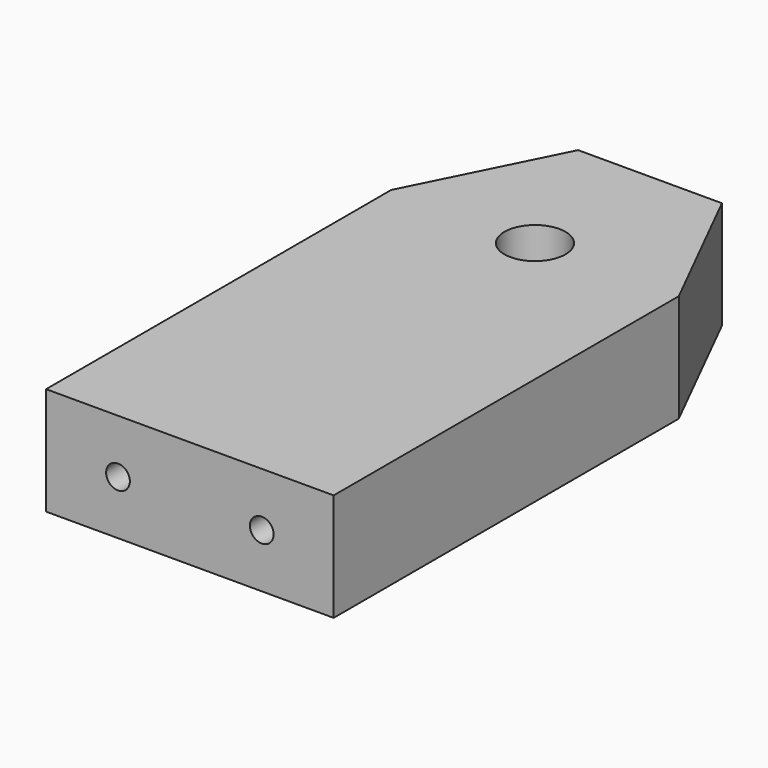
from build123d import *

# Parameters (mm, degrees)
F0_R     = 4.25
F1_DEPTH = 15
F2_R     = 1.65
F3_DEPTH = 20


with BuildPart() as f1:
    # F0 (on Top) → F1 (new body)
    with BuildSketch(Plane.XY):
        Polygon((-20, -60), (20, -60), (20, 0), (10, 20), (-10, 20), (-20, 0), align=None)
        Circle(F0_R, mode=Mode.SUBTRACT)
    extrude(amount=F1_DEPTH)

    # F2 (on face) → F3 (cut)
    with BuildSketch(Plane.XZ.offset(60)):
        with Locations((10, 7.5)):
            Circle(F2_R)
        with Locations((-10, 7.5)):
            Circle(F2_R)
    extrude(amount=-F3_DEPTH, mode=Mode.SUBTRACT)


solid = f1.part
